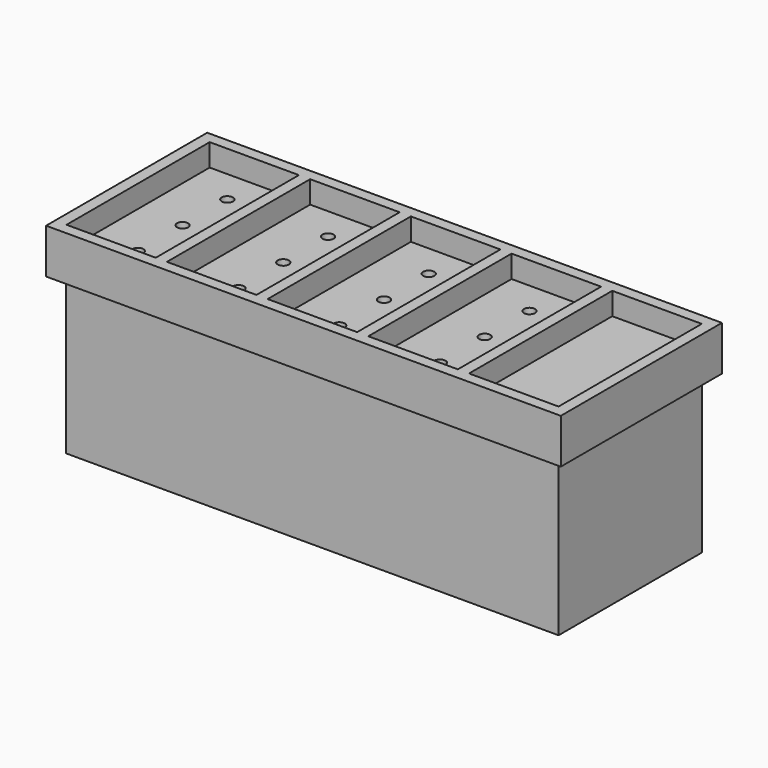
from build123d import *

# Parameters (mm, degrees)
F0_W     = 279.4
F0_H     = 101.6
F0_R     = 3.175
F1_DEPTH = 101.6
F2_W     = 6.35
F2_H     = 101.6
F3_DEPTH = 12.7
F4_W     = 292.1
F4_H     = 114.3
F4_W_2   = 50.6314568898
F4_H_2   = 101.5523529232
F4_W_3   = 50.8
F4_H_3   = 101.6
F5_DEPTH = 25.4


with BuildPart() as f1:
    # F0 (on Top) → F1 (new body)
    with BuildSketch(Plane.XY):
        with Locations((9.3390280625, 1.3603759766)):
            Rectangle(F0_W, F0_H)
        with Locations((-104.9609719375, -30.3896240234)):
            Circle(F0_R, mode=Mode.SUBTRACT)
        with Locations((-47.8109719375, -30.3896240234)):
            Circle(F0_R, mode=Mode.SUBTRACT)
        with Locations((9.3390280625, -30.3896240234)):
            Circle(F0_R, mode=Mode.SUBTRACT)
        with Locations((66.4890280625, -30.3896240234)):
            Circle(F0_R, mode=Mode.SUBTRACT)
        with Locations((-104.9609719375, 1.3603759766)):
            Circle(F0_R, mode=Mode.SUBTRACT)
        with Locations((-47.8109719375, 1.3603759766)):
            Circle(F0_R, mode=Mode.SUBTRACT)
        with Locations((-104.9609719375, 33.1103759766)):
            Circle(F0_R, mode=Mode.SUBTRACT)
        with Locations((-47.8109719375, 33.1103759766)):
            Circle(F0_R, mode=Mode.SUBTRACT)
        with Locations((9.3390280625, 1.3603759766)):
            Circle(F0_R, mode=Mode.SUBTRACT)
        with Locations((66.4890280625, 1.3603759766)):
            Circle(F0_R, mode=Mode.SUBTRACT)
        with Locations((9.3390280625, 33.1103759766)):
            Circle(F0_R, mode=Mode.SUBTRACT)
        with Locations((66.4890280625, 33.1103759766)):
            Circle(F0_R, mode=Mode.SUBTRACT)
    extrude(amount=F1_DEPTH)

    # F2 (on face) → F3 (cut)
    with BuildSketch(Plane.XY.offset(101.6)):
        with Locations((-76.3859719375, 1.3603759766)):
            Rectangle(F2_W, F2_H)
        with Locations((-19.2359719375, 1.3603759766)):
            Rectangle(F2_W, F2_H)
        with Locations((37.9140280625, 1.3603759766)):
            Rectangle(F2_W, F2_H)
        with Locations((95.0640280625, 1.3603759766)):
            Rectangle(F2_W, F2_H)
    extrude(amount=-F3_DEPTH, mode=Mode.SUBTRACT)

    # F4 (on face) → F5 (join)
    with BuildSketch(Plane.XY.offset(88.9)):
        with Locations((9.3390280625, 1.3603759766)):
            Rectangle(F4_W, F4_H)
        with Locations((-104.8767003824, 1.3365524381)):
            Rectangle(F4_W_2, F4_H_2, mode=Mode.SUBTRACT)
        with Locations((-47.8109719375, 1.3603759766)):
            Rectangle(F4_W_3, F4_H_3, mode=Mode.SUBTRACT)
        with Locations((9.3390280625, 1.3603759766)):
            Rectangle(F4_W_3, F4_H_3, mode=Mode.SUBTRACT)
        with Locations((66.4890280625, 1.3603759766)):
            Rectangle(F4_W_3, F4_H_3, mode=Mode.SUBTRACT)
        with Locations((123.6390280625, 1.3603759766)):
            Rectangle(F4_W_3, F4_H_3, mode=Mode.SUBTRACT)
    extrude(amount=F5_DEPTH)


solid = f1.part
